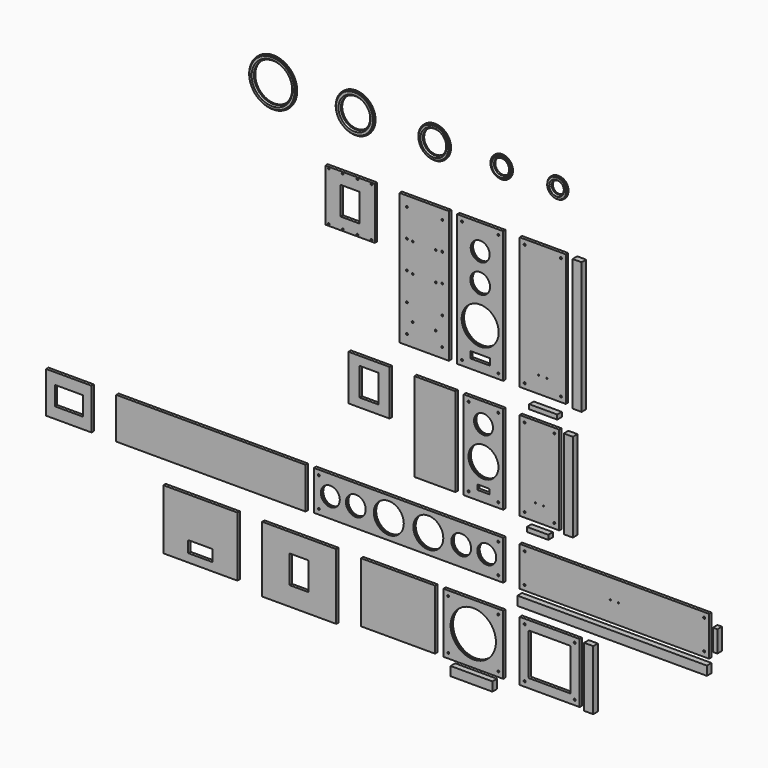
from build123d import *

# Parameters (mm, degrees)
F1_W            = 280
F1_H            = 800
F1_R            = 6
F1_R_2          = 112.5
F1_R_3          = 60
F1_R_4          = 57.5
F2_DEPTH        = 18
F1_R_5          = 3.5
F1_W_2          = 240
F1_H_2          = 539
F1_R_6          = 91
F1_W_3          = 1150
F1_H_3          = 240
F1_W_4          = 364
F1_H_4          = 364
F1_R_7          = 137.5
F3_W            = 300
F3_H            = 800
F4_DEPTH        = 18
F3_H_2          = 316
F3_W_2          = 115
F3_H_3          = 170
F3_W_3          = 250
F3_H_4          = 539
F3_H_5          = 276
F3_W_4          = 1150
F3_H_6          = 250
F3_W_5          = 276
F3_W_6          = 170
F3_H_7          = 115
F3_W_7          = 450
F3_H_8          = 364
F3_H_9          = 400
F5_R            = 137.5
F5_R_2          = 116
F6_DEPTH        = 18
F5_R_3          = 112.5
F5_R_4          = 89
F5_R_5          = 91
F5_R_6          = 71
F5_R_7          = 57.5
F5_R_8          = 37
F5_R_9          = 60
F5_R_10         = 46
F8_R            = 62.5
F8_R_2          = 37
F9_DEPTH        = 4
F8_R_3          = 67
F8_R_4          = 46
F8_R_5          = 98
F8_R_6          = 71
F8_R_7          = 119.5
F8_R_8          = 89
F8_R_9          = 144.5
F8_R_10         = 116
F10_SIZE        = 8
F10_2_SIZE      = 8
F10_3_SIZE      = 8
F10_4_SIZE      = 8
F10_5_SIZE      = 8
F11_R           = 62.5
F11_R_2         = 67
F11_R_3         = 119.5
F11_R_4         = 98
F11_R_5         = 144.5
F12_DEPTH       = 5
F13_W           = 55
F13_H           = 800
F14_DEPTH       = 35
F13_H_2         = 539
F13_H_3         = 364
F13_W_2         = 1150
F13_H_4         = 55
F13_W_3         = 27.5
F13_H_5         = 130
F13_W_4         = 130
F13_H_6         = 27.5
F13_W_5         = 170
F13_W_6         = 254
F16_D           = 5.5
F16_CSINK_D     = 11.2
F16_CSINK_ANGLE = 90
F18_D           = 5.5
F18_CSINK_D     = 11.2
F18_CSINK_ANGLE = 90


with BuildPart() as f2:
    # F1 (on Front) → F2 (new body)
    with BuildSketch(Plane.XZ):
        with Locations((-140, 0)):
            Rectangle(F1_W, F1_H)
        with Locations((-250, -370)):
            Circle(F1_R, mode=Mode.SUBTRACT)
        with Locations((-30, -370)):
            Circle(F1_R, mode=Mode.SUBTRACT)
        with BuildLine():
            ThreePointArc((-200, -309), (-198.8284271247, -306.1715728753), (-196, -305))
            Line((-196, -305), (-84, -305))
            ThreePointArc((-84, -305), (-81.1715728753, -306.1715728753), (-80, -309))
            Line((-80, -309), (-80, -341))
            ThreePointArc((-80, -341), (-81.1715728753, -343.8284271247), (-84, -345))
            Line((-84, -345), (-196, -345))
            ThreePointArc((-196, -345), (-198.8284271247, -343.8284271247), (-200, -341))
            Line((-200, -341), (-200, -309))
        make_face(mode=Mode.SUBTRACT)
        with Locations((-140, -150)):
            Circle(F1_R_2, mode=Mode.SUBTRACT)
        with Locations((-140, 76)):
            Circle(F1_R_3, mode=Mode.SUBTRACT)
        with Locations((-140, 247)):
            Circle(F1_R_4, mode=Mode.SUBTRACT)
        with Locations((-250, 370)):
            Circle(F1_R, mode=Mode.SUBTRACT)
        with Locations((-30, 370)):
            Circle(F1_R, mode=Mode.SUBTRACT)
    extrude(amount=F2_DEPTH)


with BuildPart() as f2b:
    # F1 (on Front) → F2, piece 2 (new body)
    with BuildSketch(Plane.XZ):
        with Locations((240, 0)):
            Rectangle(F1_W, F1_H)
        with Locations((130, -370)):
            Circle(F1_R, mode=Mode.SUBTRACT)
        with Locations((215, -300)):
            Circle(F1_R_5, mode=Mode.SUBTRACT)
        with Locations((265, -300)):
            Circle(F1_R_5, mode=Mode.SUBTRACT)
        with Locations((350, -370)):
            Circle(F1_R, mode=Mode.SUBTRACT)
        with Locations((130, 370)):
            Circle(F1_R, mode=Mode.SUBTRACT)
        with Locations((350, 370)):
            Circle(F1_R, mode=Mode.SUBTRACT)
    extrude(amount=F2_DEPTH)


with BuildPart() as f2c:
    # F1 (on Front) → F2, piece 3 (new body)
    with BuildSketch(Plane.XZ):
        with Locations((-120, -819.5)):
            Rectangle(F1_W_2, F1_H_2)
        with Locations((-210, -1059)):
            Circle(F1_R, mode=Mode.SUBTRACT)
        with BuildLine():
            ThreePointArc((-157.5, -1008), (-156.3284271247, -1005.1715728753), (-153.5, -1004))
            Line((-153.5, -1004), (-86.5, -1004))
            ThreePointArc((-86.5, -1004), (-83.6715728753, -1005.1715728753), (-82.5, -1008))
            Line((-82.5, -1008), (-82.5, -1030))
            ThreePointArc((-82.5, -1030), (-83.6715728753, -1032.8284271247), (-86.5, -1034))
            Line((-86.5, -1034), (-153.5, -1034))
            ThreePointArc((-153.5, -1034), (-156.3284271247, -1032.8284271247), (-157.5, -1030))
            Line((-157.5, -1030), (-157.5, -1008))
        make_face(mode=Mode.SUBTRACT)
        with Locations((-30, -1059)):
            Circle(F1_R, mode=Mode.SUBTRACT)
        with Locations((-120, -872)):
            Circle(F1_R_6, mode=Mode.SUBTRACT)
        with Locations((-120, -671)):
            Circle(F1_R_4, mode=Mode.SUBTRACT)
        with Locations((-210, -580)):
            Circle(F1_R, mode=Mode.SUBTRACT)
        with Locations((-30, -580)):
            Circle(F1_R, mode=Mode.SUBTRACT)
    extrude(amount=F2_DEPTH)


with BuildPart() as f2d:
    # F1 (on Front) → F2, piece 4 (new body)
    with BuildSketch(Plane.XZ):
        with Locations((220, -819.5)):
            Rectangle(F1_W_2, F1_H_2)
        with Locations((130, -1059)):
            Circle(F1_R, mode=Mode.SUBTRACT)
        with Locations((195, -989)):
            Circle(F1_R_5, mode=Mode.SUBTRACT)
        with Locations((310, -1059)):
            Circle(F1_R, mode=Mode.SUBTRACT)
        with Locations((245, -989)):
            Circle(F1_R_5, mode=Mode.SUBTRACT)
        with Locations((130, -580)):
            Circle(F1_R, mode=Mode.SUBTRACT)
        with Locations((310, -580)):
            Circle(F1_R, mode=Mode.SUBTRACT)
    extrude(amount=F2_DEPTH)


with BuildPart() as f2e:
    # F1 (on Front) → F2, piece 5 (new body)
    with BuildSketch(Plane.XZ):
        with Locations((-575, -1359)):
            Rectangle(F1_W_3, F1_H_3)
        with Locations((-1120, -1449)):
            Circle(F1_R, mode=Mode.SUBTRACT)
        with Locations((-30, -1449)):
            Circle(F1_R, mode=Mode.SUBTRACT)
        with Locations((-1050, -1359)):
            Circle(F1_R_4, mode=Mode.SUBTRACT)
        with Locations((-1120, -1269)):
            Circle(F1_R, mode=Mode.SUBTRACT)
        with Locations((-895, -1359)):
            Circle(F1_R_3, mode=Mode.SUBTRACT)
        with Locations((-695, -1359)):
            Circle(F1_R_6, mode=Mode.SUBTRACT)
        with Locations((-455, -1359)):
            Circle(F1_R_6, mode=Mode.SUBTRACT)
        with Locations((-255, -1359)):
            Circle(F1_R_3, mode=Mode.SUBTRACT)
        with Locations((-100, -1359)):
            Circle(F1_R_4, mode=Mode.SUBTRACT)
        with Locations((-30, -1269)):
            Circle(F1_R, mode=Mode.SUBTRACT)
    extrude(amount=F2_DEPTH)


with BuildPart() as f2f:
    # F1 (on Front) → F2, piece 6 (new body)
    with BuildSketch(Plane.XZ):
        with Locations((675, -1359)):
            Rectangle(F1_W_3, F1_H_3)
        with Locations((130, -1449)):
            Circle(F1_R, mode=Mode.SUBTRACT)
        with Locations((1220, -1449)):
            Circle(F1_R, mode=Mode.SUBTRACT)
        with Locations((130, -1269)):
            Circle(F1_R, mode=Mode.SUBTRACT)
        with Locations((650, -1359)):
            Circle(F1_R_5, mode=Mode.SUBTRACT)
        with Locations((700, -1359)):
            Circle(F1_R_5, mode=Mode.SUBTRACT)
        with Locations((1220, -1269)):
            Circle(F1_R, mode=Mode.SUBTRACT)
    extrude(amount=F2_DEPTH)


with BuildPart() as f2g:
    # F1 (on Front) → F2, piece 7 (new body)
    with BuildSketch(Plane.XZ):
        with Locations((-182, -1811)):
            Rectangle(F1_W_4, F1_H_4)
        with Locations((-334, -1963)):
            Circle(F1_R, mode=Mode.SUBTRACT)
        with Locations((-30, -1963)):
            Circle(F1_R, mode=Mode.SUBTRACT)
        with Locations((-182, -1811)):
            Circle(F1_R_7, mode=Mode.SUBTRACT)
        with Locations((-334, -1659)):
            Circle(F1_R, mode=Mode.SUBTRACT)
        with Locations((-30, -1659)):
            Circle(F1_R, mode=Mode.SUBTRACT)
    extrude(amount=F2_DEPTH)


with BuildPart() as f2h:
    # F1 (on Front) → F2, piece 8 (new body)
    with BuildSketch(Plane.XZ):
        with Locations((282, -1811)):
            Rectangle(F1_W_4, F1_H_4)
        with Locations((130, -1963)):
            Circle(F1_R, mode=Mode.SUBTRACT)
        with BuildLine():
            ThreePointArc((154.5, -1687.5), (155.6715728753, -1684.6715728753), (158.5, -1683.5))
            Line((158.5, -1683.5), (405.5, -1683.5))
            ThreePointArc((405.5, -1683.5), (408.3284271247, -1684.6715728753), (409.5, -1687.5))
            Line((409.5, -1687.5), (409.5, -1934.5))
            ThreePointArc((409.5, -1934.5), (408.3284271247, -1937.3284271247), (405.5, -1938.5))
            Line((405.5, -1938.5), (158.5, -1938.5))
            ThreePointArc((158.5, -1938.5), (155.6715728753, -1937.3284271247), (154.5, -1934.5))
            Line((154.5, -1934.5), (154.5, -1687.5))
        make_face(mode=Mode.SUBTRACT)
        with Locations((434, -1963)):
            Circle(F1_R, mode=Mode.SUBTRACT)
        with Locations((130, -1659)):
            Circle(F1_R, mode=Mode.SUBTRACT)
        with Locations((434, -1659)):
            Circle(F1_R, mode=Mode.SUBTRACT)
    extrude(amount=F2_DEPTH)


with BuildPart() as f4:
    # F3 (on Front) → F4 (new body)
    with BuildSketch(Plane.XZ):
        with Locations((-480, 0)):
            Rectangle(F3_W, F3_H)
    extrude(amount=F4_DEPTH)

    # F16 (through all)
    with Locations(Plane.XZ.offset(18)):
        with Locations((-585, 340), (-585, 170), (-550, 166.8340116739), (-585, 0), (-550, -6.7792087793), (-585, -170), (-550, -264.8233175278), (-585, -340), (-410, -264.8233175278), (-370, -340), (-370, -170), (-370, 0), (-410, -6.7792087793), (-410, 166.8340116739), (-370, 170), (-370, 340)):
            CounterSinkHole(F16_D / 2, F16_CSINK_D / 2, counter_sink_angle=F16_CSINK_ANGLE)


with BuildPart() as f4b:
    # F3 (on Front) → F4, piece 2 (new body)
    with BuildSketch(Plane.XZ):
        with Locations((-930, 242)):
            Rectangle(F3_W, F3_H_2)
        with Locations((-930, 242)):
            Rectangle(F3_W_2, F3_H_3, mode=Mode.SUBTRACT)
    extrude(amount=F4_DEPTH)

    # F18 (through all)
    with Locations(Plane.XZ.offset(18)):
        with Locations((-800, 93), (-975, 391), (-800, 391), (-1060, 93), (-1060, 391), (-885, 391), (-975, 93), (-885, 93)):
            CounterSinkHole(F18_D / 2, F18_CSINK_D / 2, counter_sink_angle=F18_CSINK_ANGLE)


with BuildPart() as f4c:
    # F3 (on Front) → F4, piece 3 (new body)
    with BuildSketch(Plane.XZ):
        with Locations((-415, -819.5)):
            Rectangle(F3_W_3, F3_H_4)
    extrude(amount=F4_DEPTH)


with BuildPart() as f4d:
    # F3 (on Front) → F4, piece 4 (new body)
    with BuildSketch(Plane.XZ):
        with Locations((-815, -688)):
            Rectangle(F3_W_3, F3_H_5)
        with Locations((-815, -688)):
            Rectangle(F3_W_2, F3_H_3, mode=Mode.SUBTRACT)
    extrude(amount=F4_DEPTH)


with BuildPart() as f4e:
    # F3 (on Front) → F4, piece 5 (new body)
    with BuildSketch(Plane.XZ):
        with Locations((-1775, -1364)):
            Rectangle(F3_W_4, F3_H_6)
    extrude(amount=F4_DEPTH)


with BuildPart() as f4f:
    # F3 (on Front) → F4, piece 6 (new body)
    with BuildSketch(Plane.XZ):
        with Locations((-2638, -1364)):
            Rectangle(F3_W_5, F3_H_6)
        with Locations((-2638, -1364)):
            Rectangle(F3_W_6, F3_H_7, mode=Mode.SUBTRACT)
    extrude(amount=F4_DEPTH)


with BuildPart() as f4g:
    # F3 (on Front) → F4, piece 7 (new body)
    with BuildSketch(Plane.XZ):
        with Locations((-639, -1811)):
            Rectangle(F3_W_7, F3_H_8)
    extrude(amount=F4_DEPTH)


with BuildPart() as f4h:
    # F3 (on Front) → F4, piece 8 (new body)
    with BuildSketch(Plane.XZ):
        with Locations((-1239, -1829)):
            Rectangle(F3_W_7, F3_H_9)
        with Locations((-1239, -1829)):
            Rectangle(F3_W_2, F3_H_3, mode=Mode.SUBTRACT)
    extrude(amount=F4_DEPTH)


with BuildPart() as f4i:
    # F3 (on Front) → F4, piece 9 (new body)
    with BuildSketch(Plane.XZ):
        with Locations((-1839, -1811)):
            Rectangle(F3_W_7, F3_H_8)
        with BuildLine():
            ThreePointArc((-1914, -1877), (-1912.8284271247, -1874.1715728753), (-1910, -1873))
            Line((-1910, -1873), (-1768, -1873))
            ThreePointArc((-1768, -1873), (-1765.1715728753, -1874.1715728753), (-1764, -1877))
            Line((-1764, -1877), (-1764, -1939))
            ThreePointArc((-1764, -1939), (-1765.1715728753, -1941.8284271247), (-1768, -1943))
            Line((-1768, -1943), (-1910, -1943))
            ThreePointArc((-1910, -1943), (-1912.8284271247, -1941.8284271247), (-1914, -1939))
            Line((-1914, -1939), (-1914, -1877))
        make_face(mode=Mode.SUBTRACT)
    extrude(amount=F4_DEPTH)


with BuildPart() as f6:
    # F5 (on Front) → F6 (new body)
    with BuildSketch(Plane.XZ):
        with Locations((-1404.1702416508, 735.7305288315)):
            Circle(F5_R)
        with Locations((-1404.1702416508, 735.7305288315)):
            Circle(F5_R_2, mode=Mode.SUBTRACT)
    extrude(amount=F6_DEPTH)

    # F8 (on offset) → F9, piece 5 (join)
    with BuildSketch(Plane.XZ.offset(7)):
        with Locations((-1404.1702416508, 735.7305288315)):
            Circle(F8_R_9)
        with Locations((-1404.1702416508, 735.7305288315)):
            Circle(F8_R_10, mode=Mode.SUBTRACT)
    extrude(amount=F9_DEPTH)

    # F10
    f10_edges = [f6.edges().sort_by_distance(p)[0] for p in [
        (-1520.170242, -18, 735.730529),
    ]]
    chamfer(f10_edges, length=F10_SIZE)


with BuildPart() as f6b:
    # F5 (on Front) → F6, piece 2 (new body)
    with BuildSketch(Plane.XZ):
        with Locations((-903.372988584, 735.7305288315)):
            Circle(F5_R_3)
        with Locations((-903.372988584, 735.7305288315)):
            Circle(F5_R_4, mode=Mode.SUBTRACT)
    extrude(amount=F6_DEPTH)

    # F8 (on offset) → F9, piece 4 (join)
    with BuildSketch(Plane.XZ.offset(7)):
        with Locations((-903.372988584, 735.7305288315)):
            Circle(F8_R_7)
        with Locations((-903.372988584, 735.7305288315)):
            Circle(F8_R_8, mode=Mode.SUBTRACT)
    extrude(amount=F9_DEPTH)

    # F10#2
    f10_2_edges = [f6b.edges().sort_by_distance(p)[0] for p in [
        (-992.372989, -18, 735.730529),
    ]]
    chamfer(f10_2_edges, length=F10_2_SIZE)


with BuildPart() as f6c:
    # F5 (on Front) → F6, piece 3 (new body)
    with BuildSketch(Plane.XZ):
        with Locations((-423.442340692, 735.7305288315)):
            Circle(F5_R_5)
        with Locations((-423.442340692, 735.7305288315)):
            Circle(F5_R_6, mode=Mode.SUBTRACT)
    extrude(amount=F6_DEPTH)

    # F8 (on offset) → F9, piece 3 (join)
    with BuildSketch(Plane.XZ.offset(7)):
        with Locations((-423.442340692, 735.7305288315)):
            Circle(F8_R_5)
        with Locations((-423.442340692, 735.7305288315)):
            Circle(F8_R_6, mode=Mode.SUBTRACT)
    extrude(amount=F9_DEPTH)

    # F10#3
    f10_3_edges = [f6c.edges().sort_by_distance(p)[0] for p in [
        (-494.442341, -18, 735.730529),
    ]]
    chamfer(f10_3_edges, length=F10_3_SIZE)


with BuildPart() as f6d:
    # F5 (on Front) → F6, piece 4 (new body)
    with BuildSketch(Plane.XZ):
        with Locations((324.2757007608, 735.7305288315)):
            Circle(F5_R_7)
        with Locations((324.2757007608, 735.7305288315)):
            Circle(F5_R_8, mode=Mode.SUBTRACT)
    extrude(amount=F6_DEPTH)

    # F8 (on offset) → F9 (join)
    with BuildSketch(Plane.XZ.offset(7)):
        with Locations((324.2757007608, 735.7305288315)):
            Circle(F8_R)
        with Locations((324.2757007608, 735.7305288315)):
            Circle(F8_R_2, mode=Mode.SUBTRACT)
    extrude(amount=F9_DEPTH)

    # F10#5
    f10_5_edges = [f6d.edges().sort_by_distance(p)[0] for p in [
        (287.275701, -18, 735.730529),
    ]]
    chamfer(f10_5_edges, length=F10_5_SIZE)


with BuildPart() as f6e:
    # F5 (on Front) → F6, piece 5 (new body)
    with BuildSketch(Plane.XZ):
        with Locations((-16.5446028402, 735.7305288315)):
            Circle(F5_R_9)
        with Locations((-16.5446028402, 735.7305288315)):
            Circle(F5_R_10, mode=Mode.SUBTRACT)
    extrude(amount=F6_DEPTH)

    # F8 (on offset) → F9, piece 2 (join)
    with BuildSketch(Plane.XZ.offset(7)):
        with Locations((-16.5446028402, 735.7305288315)):
            Circle(F8_R_3)
        with Locations((-16.5446028402, 735.7305288315)):
            Circle(F8_R_4, mode=Mode.SUBTRACT)
    extrude(amount=F9_DEPTH)

    # F10#4
    f10_4_edges = [f6e.edges().sort_by_distance(p)[0] for p in [
        (-62.544603, -18, 735.730529),
    ]]
    chamfer(f10_4_edges, length=F10_4_SIZE)


with BuildPart() as f12_tool:
    # F11 (on offset) → F12 (new body)
    with BuildSketch(Plane.XZ.offset(7)):
        with Locations((-140, 247)):
            Circle(F11_R)
        with Locations((-140, 76)):
            Circle(F11_R_2)
        with Locations((-140, -150)):
            Circle(F11_R_3)
        with Locations((-120, -671)):
            Circle(F11_R)
        with Locations((-120, -872)):
            Circle(F11_R_4)
        with Locations((-1050, -1359)):
            Circle(F11_R)
        with Locations((-895, -1359)):
            Circle(F11_R_2)
        with Locations((-695, -1359)):
            Circle(F11_R_4)
        with Locations((-182, -1811)):
            Circle(F11_R_5)
        with Locations((-455, -1359)):
            Circle(F11_R_4)
        with Locations((-255, -1359)):
            Circle(F11_R_2)
        with Locations((-100, -1359)):
            Circle(F11_R)
    extrude(amount=F12_DEPTH)


with BuildPart() as f2_1:
    add(f2.part)

    # F12: cut by f12_tool
    add(f12_tool.part, mode=Mode.SUBTRACT)


with BuildPart() as f2c_1:
    add(f2c.part)

    # F12: cut by f12_tool
    add(f12_tool.part, mode=Mode.SUBTRACT)


with BuildPart() as f2e_1:
    add(f2e.part)

    # F12: cut by f12_tool
    add(f12_tool.part, mode=Mode.SUBTRACT)


with BuildPart() as f2g_1:
    add(f2g.part)

    # F12: cut by f12_tool
    add(f12_tool.part, mode=Mode.SUBTRACT)


with BuildPart() as f14:
    # F13 (on Front) → F14 (new body)
    with BuildSketch(Plane.XZ):
        with Locations((462.0682561398, 0)):
            Rectangle(F13_W, F13_H)
    extrude(amount=F14_DEPTH)


with BuildPart() as f14b:
    # F13 (on Front) → F14, piece 2 (new body)
    with BuildSketch(Plane.XZ):
        with Locations((408.9769685268, -819.5)):
            Rectangle(F13_W, F13_H_2)
    extrude(amount=F14_DEPTH)


with BuildPart() as f14c:
    # F13 (on Front) → F14, piece 3 (new body)
    with BuildSketch(Plane.XZ):
        with Locations((532.5229430199, -1811)):
            Rectangle(F13_W, F13_H_3)
    extrude(amount=F14_DEPTH)


with BuildPart() as f14d:
    # F13 (on Front) → F14, piece 4 (new body)
    with BuildSketch(Plane.XZ):
        with Locations((675, -1536.0110139847)):
            Rectangle(F13_W_2, F13_H_4)
    extrude(amount=F14_DEPTH)


with BuildPart() as f14e:
    # F13 (on Front) → F14, piece 5 (new body)
    with BuildSketch(Plane.XZ):
        with Locations((1299.7830343246, -1358.8773584366)):
            Rectangle(F13_W_3, F13_H_5)
    extrude(amount=F14_DEPTH)


with BuildPart() as f14f:
    # F13 (on Front) → F14, piece 6 (new body)
    with BuildSketch(Plane.XZ):
        with Locations((222.3796123266, -1136.0072660446)):
            Rectangle(F13_W_4, F13_H_6)
    extrude(amount=F14_DEPTH)


with BuildPart() as f14g:
    # F13 (on Front) → F14, piece 7 (new body)
    with BuildSketch(Plane.XZ):
        with Locations((256.3952124119, -475.5398201942)):
            Rectangle(F13_W_5, F13_H_6)
    extrude(amount=F14_DEPTH)


with BuildPart() as f14h:
    # F13 (on Front) → F14, piece 8 (new body)
    with BuildSketch(Plane.XZ):
        with Locations((-179.0251772404, -2044.1171264648)):
            Rectangle(F13_W_6, F13_H_4)
    extrude(amount=F14_DEPTH)


solid = Compound([f2b.part, f2d.part, f2f.part, f2h.part, f4.part, f4b.part, f4c.part, f4d.part, f4e.part, f4f.part, f4g.part, f4h.part, f4i.part, f6.part, f6b.part, f6c.part, f6d.part, f6e.part, f2_1.part, f2c_1.part, f2e_1.part, f2g_1.part, f14.part, f14b.part, f14c.part, f14d.part, f14e.part, f14f.part, f14g.part, f14h.part])
